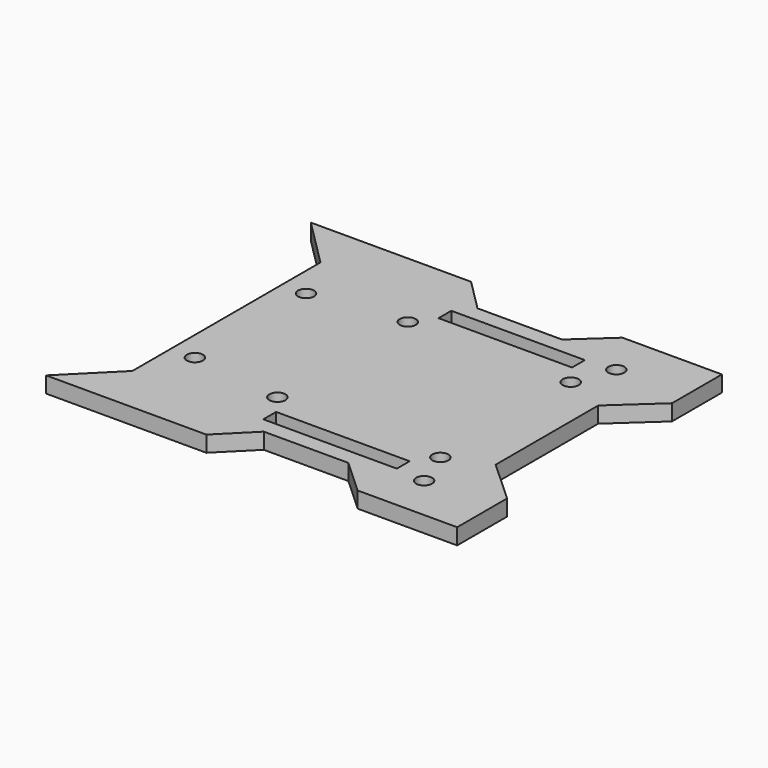
from build123d import *

# Parameters (mm, degrees)
F0_R     = 1.5
F0_W     = 25
F0_H     = 3
F1_DEPTH = 3


with BuildPart() as f1:
    # F0 (on Top) → F1 (new body)
    with BuildSketch(Plane.XY):
        Polygon((5.826227, 25), (-10, 25), (-15.97664, 30.97664), (-45.976639, 30.97664), (-37, 22), (-37, -22), (-45.976639, -30.97664), (-15.97664, -30.97664), (-10, -25), (5.826227, -25), (12.348584, -30.97664), (30.97664, -30.97664), (30.97664, -19.30114), (23, -11.991897), (23, 11.991897), (30.97664, 19.30114), (30.97664, 30.97664), (12.348584, 30.97664), align=None)
        with Locations((-32.5, -13)):
            Circle(F0_R, mode=Mode.SUBTRACT)
        with Locations((-15.25, -15.25)):
            Circle(F0_R, mode=Mode.SUBTRACT)
        with Locations((0, -20.5)):
            Rectangle(F0_W, F0_H, mode=Mode.SUBTRACT)
        with Locations((18, -22.5)):
            Circle(F0_R, mode=Mode.SUBTRACT)
        with Locations((15.25, -15.25)):
            Circle(F0_R, mode=Mode.SUBTRACT)
        with Locations((-32.5, 13)):
            Circle(F0_R, mode=Mode.SUBTRACT)
        with Locations((-15.25, 15.25)):
            Circle(F0_R, mode=Mode.SUBTRACT)
        with Locations((15.25, 15.25)):
            Circle(F0_R, mode=Mode.SUBTRACT)
        with Locations((0, 20.5)):
            Rectangle(F0_W, F0_H, mode=Mode.SUBTRACT)
        with Locations((18, 22.5)):
            Circle(F0_R, mode=Mode.SUBTRACT)
    extrude(amount=F1_DEPTH)


solid = f1.part
